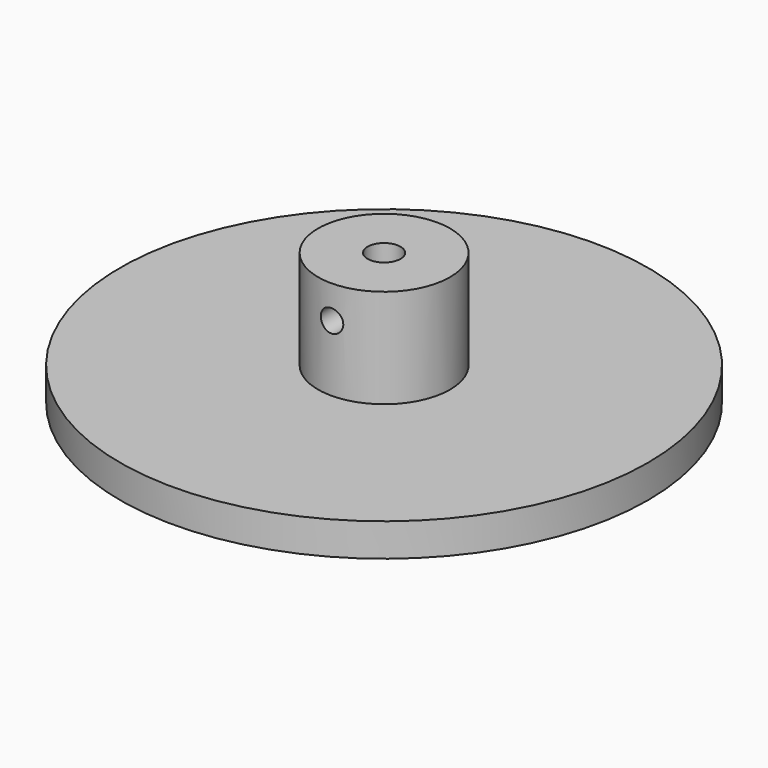
from build123d import *

# Parameters (mm, degrees)
SKETCH005_AS_DRAWN_R              = 2.3
REVOLVE_ONTO_SKETCH005_ROLL_ANGLE = 90
SKETCH007_R                       = 10.5
EXTRUDE_DEPTH                     = 5
SKETCH006_R                       = 40
PAD004_DEPTH                      = 5
SKETCH001_R                       = 2.3
SKETCH_R                          = 40
PAD_DEPTH                         = 5
SKETCH003_R                       = 2.5
PAD002_DEPTH                      = 30
SKETCH004_R                       = 1.7
PAD003_DEPTH                      = 15
SKETCH002_R                       = 10
PAD001_DEPTH                      = 20


with BuildPart() as revolve_body:
    # Sketch005 as drawn → Revolve (revolve)
    with BuildSketch(Plane.XY):
        with Locations((25, 5.4)):
            Circle(SKETCH005_AS_DRAWN_R)
    revolve(axis=Axis((0, 0, 0), (0, 1, 0)))


with BuildPart() as revolve_body_1:
    # Revolve onto Sketch005 roll: moved
    add(revolve_body.part.rotate(Axis((0, 0, 0), (1, 0, 0)), REVOLVE_ONTO_SKETCH005_ROLL_ANGLE))


with BuildPart() as revolve_body_2:
    # Revolve onto Sketch005 placement: moved
    add(revolve_body_1.part)


with BuildPart() as hub_hole_ex:
    # Sketch007 → Extrude (new body)
    with BuildSketch(Plane.XY):
        Circle(SKETCH007_R)
    extrude(amount=EXTRUDE_DEPTH)


with BuildPart() as bot_bearing:
    # Sketch006 → Pad004 (new body)
    with BuildSketch(Plane.XY):
        Circle(SKETCH006_R)
    extrude(amount=PAD004_DEPTH)

    # Cut001: cut hub_hole_ex
    add(hub_hole_ex.part, mode=Mode.SUBTRACT)

    # Cut004: cut Revolve body
    add(revolve_body_2.part, mode=Mode.SUBTRACT)


with BuildPart() as revolution:
    # Sketch001 → Revolution (revolve)
    with BuildSketch(Plane.XZ):
        with Locations((25, -0.2)):
            Circle(SKETCH001_R)
    revolve(axis=Axis((0, 0, 0), (0, 0, 1)))


with BuildPart() as base:
    # Sketch → Pad (new body)
    with BuildSketch(Plane.XY):
        Circle(SKETCH_R)
    extrude(amount=PAD_DEPTH)

    # Cut: cut Revolution
    add(revolution.part, mode=Mode.SUBTRACT)


with BuildPart() as shaft_hole3d:
    # Sketch003 → Pad002 (new body)
    with BuildSketch(Plane.XY):
        Circle(SKETCH003_R)
    extrude(amount=PAD002_DEPTH)


with BuildPart() as pad003:
    # Sketch004 → Pad003 (new body, symmetric)
    with BuildSketch(Plane.XZ):
        with Locations((0, 15)):
            Circle(SKETCH004_R)
    extrude(amount=PAD003_DEPTH, both=True)


with BuildPart() as top_bearing001:
    # Sketch002 → Pad001 (new body)
    with BuildSketch(Plane.XY):
        Circle(SKETCH002_R)
    extrude(amount=PAD001_DEPTH)

    # Cut002: cut Pad003
    add(pad003.part, mode=Mode.SUBTRACT)

    # Cut003: cut shaft_hole3d
    add(shaft_hole3d.part, mode=Mode.SUBTRACT)

    # Fusion: union base
    add(base.part)


solid = Compound([bot_bearing.part, top_bearing001.part])
